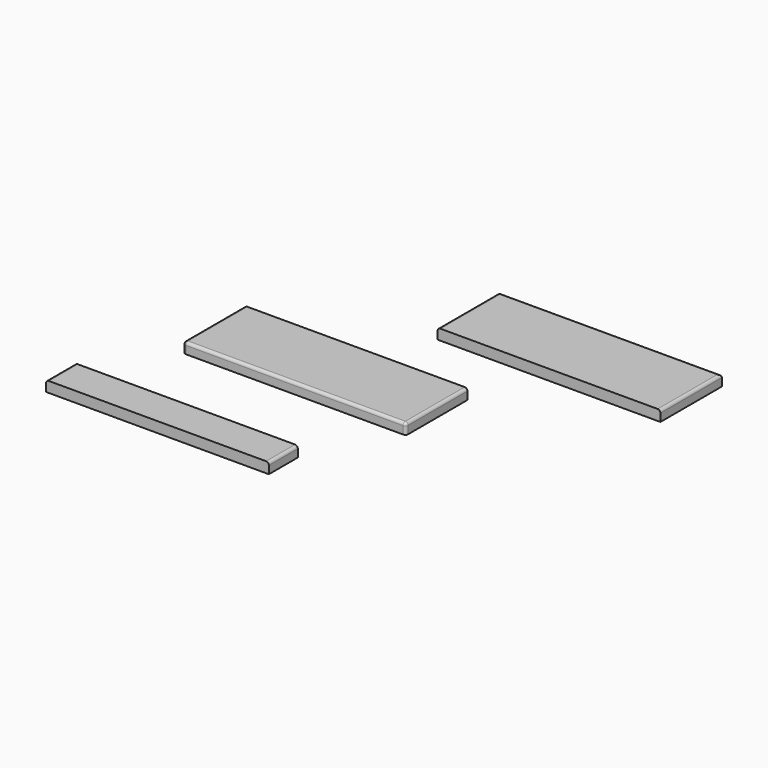
from build123d import *

# Parameters (mm, degrees)
F0_W     = 400
F0_H     = 65
F0_H_2   = 138
F1_DEPTH = 19
F2_R     = 5
F3_R     = 5
F4_R     = 5
F5_R     = 5
F6_R     = 5


with BuildPart() as f1:
    # F0 (on Top) → F1 (new body)
    with BuildSketch(Plane.XY):
        with Locations((-292.738175, -32.5)):
            Rectangle(F0_W, F0_H)
        with Locations((-216.110053, 215.806119)):
            Rectangle(F0_W, F0_H_2)
        with Locations((36.832077, 470.914705)):
            Rectangle(F0_W, F0_H_2)
    extrude(amount=F1_DEPTH)

    # F2
    f2_edges = [f1.edges().sort_by_distance(p)[0] for p in [
        (-216.110053, 146.806119, 19),
    ]]
    fillet(f2_edges, radius=F2_R)

    # F3
    f3_edges = [f1.edges().sort_by_distance(p)[0] for p in [
        (-16.110053, 218.306119, 19),
    ]]
    fillet(f3_edges, radius=F3_R)

    # F4
    f4_edges = [f1.edges().sort_by_distance(p)[0] for p in [
        (-416.110053, 218.306119, 19),
    ]]
    fillet(f4_edges, radius=F4_R)

    # F5
    f5_edges = [f1.edges().sort_by_distance(p)[0] for p in [
        (-492.738175, -32.5, 19),
        (-92.738175, -32.5, 19),
    ]]
    fillet(f5_edges, radius=F5_R)

    # F6
    f6_edges = [f1.edges().sort_by_distance(p)[0] for p in [
        (-163.167923, 470.914705, 19),
        (36.832077, 539.914705, 19),
        (236.832077, 470.914705, 19),
    ]]
    fillet(f6_edges, radius=F6_R)


solid = f1.part
